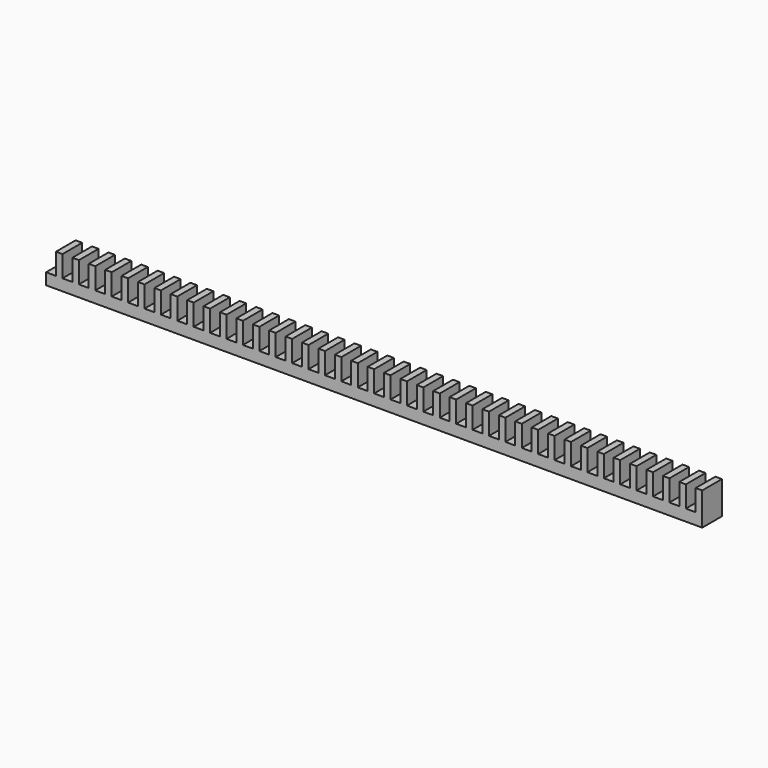
from build123d import *

# Parameters (mm, degrees)
F0_W     = 3
F0_H     = 7.5
F1_DEPTH = 3.5
F0_W_2   = 2
F2_DEPTH = 10


with BuildPart() as f1:
    # F0 (on Top) → F1 (new body)
    with BuildSketch(Plane.XY):
        with Locations((1.5, 3.75)):
            Rectangle(F0_W, F0_H)
        with Locations((6.5, 3.75)):
            Rectangle(F0_W, F0_H)
        with Locations((11.5, 3.75)):
            Rectangle(F0_W, F0_H)
        with Locations((16.5, 3.75)):
            Rectangle(F0_W, F0_H)
        with Locations((21.5, 3.75)):
            Rectangle(F0_W, F0_H)
        with Locations((26.5, 3.75)):
            Rectangle(F0_W, F0_H)
        with Locations((31.5, 3.75)):
            Rectangle(F0_W, F0_H)
        with Locations((36.5, 3.75)):
            Rectangle(F0_W, F0_H)
        with Locations((41.5, 3.75)):
            Rectangle(F0_W, F0_H)
        with Locations((46.5, 3.75)):
            Rectangle(F0_W, F0_H)
        with Locations((51.5, 3.75)):
            Rectangle(F0_W, F0_H)
        with Locations((56.5, 3.75)):
            Rectangle(F0_W, F0_H)
        with Locations((61.5, 3.75)):
            Rectangle(F0_W, F0_H)
        with Locations((66.5, 3.75)):
            Rectangle(F0_W, F0_H)
        with Locations((71.5, 3.75)):
            Rectangle(F0_W, F0_H)
        with Locations((76.5, 3.75)):
            Rectangle(F0_W, F0_H)
        with Locations((81.5, 3.75)):
            Rectangle(F0_W, F0_H)
        with Locations((86.5, 3.75)):
            Rectangle(F0_W, F0_H)
        with Locations((91.5, 3.75)):
            Rectangle(F0_W, F0_H)
        with Locations((96.5, 3.75)):
            Rectangle(F0_W, F0_H)
        with Locations((101.5, 3.75)):
            Rectangle(F0_W, F0_H)
        with Locations((106.5, 3.75)):
            Rectangle(F0_W, F0_H)
        with Locations((111.5, 3.75)):
            Rectangle(F0_W, F0_H)
        with Locations((116.5, 3.75)):
            Rectangle(F0_W, F0_H)
        with Locations((121.5, 3.75)):
            Rectangle(F0_W, F0_H)
        with Locations((126.5, 3.75)):
            Rectangle(F0_W, F0_H)
        with Locations((131.5, 3.75)):
            Rectangle(F0_W, F0_H)
        with Locations((136.5, 3.75)):
            Rectangle(F0_W, F0_H)
        with Locations((141.5, 3.75)):
            Rectangle(F0_W, F0_H)
        with Locations((146.5, 3.75)):
            Rectangle(F0_W, F0_H)
        with Locations((151.5, 3.75)):
            Rectangle(F0_W, F0_H)
        with Locations((156.5, 3.75)):
            Rectangle(F0_W, F0_H)
        with Locations((161.5, 3.75)):
            Rectangle(F0_W, F0_H)
        with Locations((166.5, 3.75)):
            Rectangle(F0_W, F0_H)
        with Locations((171.5, 3.75)):
            Rectangle(F0_W, F0_H)
        with Locations((176.5, 3.75)):
            Rectangle(F0_W, F0_H)
        with Locations((181.5, 3.75)):
            Rectangle(F0_W, F0_H)
        with Locations((186.5, 3.75)):
            Rectangle(F0_W, F0_H)
        with Locations((191.5, 3.75)):
            Rectangle(F0_W, F0_H)
        with Locations((196.5, 3.75)):
            Rectangle(F0_W, F0_H)
    extrude(amount=F1_DEPTH)

    # F0 (on Top) → F2 (join)
    with BuildSketch(Plane.XY):
        with Locations((4, 3.75)):
            Rectangle(F0_W_2, F0_H)
        with Locations((9, 3.75)):
            Rectangle(F0_W_2, F0_H)
        with Locations((14, 3.75)):
            Rectangle(F0_W_2, F0_H)
        with Locations((19, 3.75)):
            Rectangle(F0_W_2, F0_H)
        with Locations((24, 3.75)):
            Rectangle(F0_W_2, F0_H)
        with Locations((29, 3.75)):
            Rectangle(F0_W_2, F0_H)
        with Locations((34, 3.75)):
            Rectangle(F0_W_2, F0_H)
        with Locations((39, 3.75)):
            Rectangle(F0_W_2, F0_H)
        with Locations((44, 3.75)):
            Rectangle(F0_W_2, F0_H)
        with Locations((49, 3.75)):
            Rectangle(F0_W_2, F0_H)
        with Locations((54, 3.75)):
            Rectangle(F0_W_2, F0_H)
        with Locations((59, 3.75)):
            Rectangle(F0_W_2, F0_H)
        with Locations((64, 3.75)):
            Rectangle(F0_W_2, F0_H)
        with Locations((69, 3.75)):
            Rectangle(F0_W_2, F0_H)
        with Locations((74, 3.75)):
            Rectangle(F0_W_2, F0_H)
        with Locations((79, 3.75)):
            Rectangle(F0_W_2, F0_H)
        with Locations((84, 3.75)):
            Rectangle(F0_W_2, F0_H)
        with Locations((89, 3.75)):
            Rectangle(F0_W_2, F0_H)
        with Locations((94, 3.75)):
            Rectangle(F0_W_2, F0_H)
        with Locations((99, 3.75)):
            Rectangle(F0_W_2, F0_H)
        with Locations((104, 3.75)):
            Rectangle(F0_W_2, F0_H)
        with Locations((109, 3.75)):
            Rectangle(F0_W_2, F0_H)
        with Locations((114, 3.75)):
            Rectangle(F0_W_2, F0_H)
        with Locations((119, 3.75)):
            Rectangle(F0_W_2, F0_H)
        with Locations((124, 3.75)):
            Rectangle(F0_W_2, F0_H)
        with Locations((129, 3.75)):
            Rectangle(F0_W_2, F0_H)
        with Locations((134, 3.75)):
            Rectangle(F0_W_2, F0_H)
        with Locations((139, 3.75)):
            Rectangle(F0_W_2, F0_H)
        with Locations((144, 3.75)):
            Rectangle(F0_W_2, F0_H)
        with Locations((149, 3.75)):
            Rectangle(F0_W_2, F0_H)
        with Locations((154, 3.75)):
            Rectangle(F0_W_2, F0_H)
        with Locations((159, 3.75)):
            Rectangle(F0_W_2, F0_H)
        with Locations((164, 3.75)):
            Rectangle(F0_W_2, F0_H)
        with Locations((169, 3.75)):
            Rectangle(F0_W_2, F0_H)
        with Locations((174, 3.75)):
            Rectangle(F0_W_2, F0_H)
        with Locations((179, 3.75)):
            Rectangle(F0_W_2, F0_H)
        with Locations((184, 3.75)):
            Rectangle(F0_W_2, F0_H)
        with Locations((189, 3.75)):
            Rectangle(F0_W_2, F0_H)
        with Locations((194, 3.75)):
            Rectangle(F0_W_2, F0_H)
        with Locations((199, 3.75)):
            Rectangle(F0_W_2, F0_H)
    extrude(amount=F2_DEPTH)


solid = f1.part
